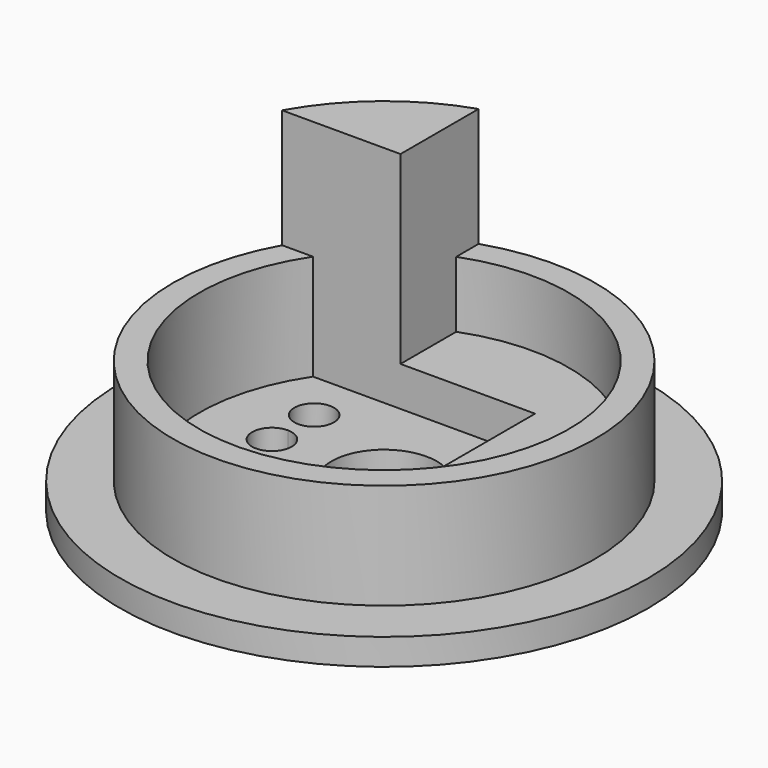
from build123d import *

# Parameters (mm, degrees)
F0_R     = 10
F0_R_2   = 8
F0_R_3   = 7
F0_R_4   = 2
F1_DEPTH = 1
F2_DEPTH = 5
F4_DEPTH = 1.5
F6_DEPTH = 1
F8_DEPTH = 9.5


with BuildPart() as f1:
    # F0 (on Top) → F1 (new body)
    with BuildSketch(Plane.XY):
        Circle(F0_R)
        Circle(F0_R_2, mode=Mode.SUBTRACT)
        Circle(F0_R_2)
        Circle(F0_R_3, mode=Mode.SUBTRACT)
        Circle(F0_R_3)
        Circle(F0_R_4, mode=Mode.SUBTRACT)
    extrude(amount=F1_DEPTH)

    # F0 (on Top) → F2 (join)
    with BuildSketch(Plane.XY):
        Circle(F0_R_2)
        Circle(F0_R_3, mode=Mode.SUBTRACT)
    extrude(amount=F2_DEPTH)

    # F3 (on face) → F4 (join)
    with BuildSketch(Plane.XY.offset(1)):
        with BuildLine():
            ThreePointArc((2.6, 6.4992307237), (-2.0663272833, 6.6880708398), (-5.8129166517, 3.9))
            Line((-5.8129166517, 3.9), (2.6, 3.9))
            Line((2.6, 3.9), (2.6, 6.4992307237))
        make_face()
        with BuildLine():
            Line((2.6, 6.4992307237), (2.6, 3.9))
            Line((2.6, 3.9), (5.8129166517, 3.9))
            ThreePointArc((5.8129166517, 3.9), (4.4026459926, 5.4421235069), (2.6, 6.4992307237))
        make_face()
        with BuildLine():
            Line((5.8129166517, 3.9), (2.6, 3.9))
            Line((2.6, 3.9), (2.6, -6.4992307237))
            ThreePointArc((2.6, -6.4992307237), (5.7965506985, -3.9242833741), (7, 0))
            ThreePointArc((7, 0), (6.6966565002, 2.0383306206), (5.8129166517, 3.9))
        make_face()
    extrude(amount=F4_DEPTH)

    # F5 (on Top) → F6 (cut, through all)
    with BuildSketch(Plane.XY):
        with BuildLine():
            ThreePointArc((-3.5, 2), (-4.7803300859, 2.5303300859), (-4.25, 1.25))
            ThreePointArc((-4.25, 1.25), (-3.7196699141, 1.4696699141), (-3.5, 2))
        make_face()
        with BuildLine():
            Line((-4.25, 0), (-3.5, 0))
            ThreePointArc((-3.5, 0), (-3.7196699141, 0.5303300859), (-4.25, 0.75))
            Line((-4.25, 0.75), (-4.25, 0))
        make_face()
        with BuildLine():
            Line((-4.25, -0.75), (-4.25, 0))
            Line((-4.25, 0), (-4.25, 0.75))
            ThreePointArc((-4.25, 0.75), (-5, 0), (-4.25, -0.75))
        make_face()
        with BuildLine():
            ThreePointArc((-4.25, -0.75), (-3.7196699141, -0.5303300859), (-3.5, 0))
            Line((-3.5, 0), (-4.25, 0))
            Line((-4.25, 0), (-4.25, -0.75))
        make_face()
        with BuildLine():
            ThreePointArc((-3.5, -2), (-3.7196699141, -1.4696699141), (-4.25, -1.25))
            ThreePointArc((-4.25, -1.25), (-4.7803300859, -2.5303300859), (-3.5, -2))
        make_face()
    extrude(amount=F6_DEPTH, mode=Mode.SUBTRACT)

    # F7 (on Top) → F8 (join)
    with BuildSketch(Plane.XY):
        with BuildLine():
            Line((-2.5, 3.9), (-2.5, 7.5993420768))
            ThreePointArc((-2.5, 7.5993420768), (-5.0904334607, 6.1715060708), (-6.984983894, 3.9))
            Line((-6.984983894, 3.9), (-2.5, 3.9))
        make_face()
    extrude(amount=F8_DEPTH)


solid = f1.part
